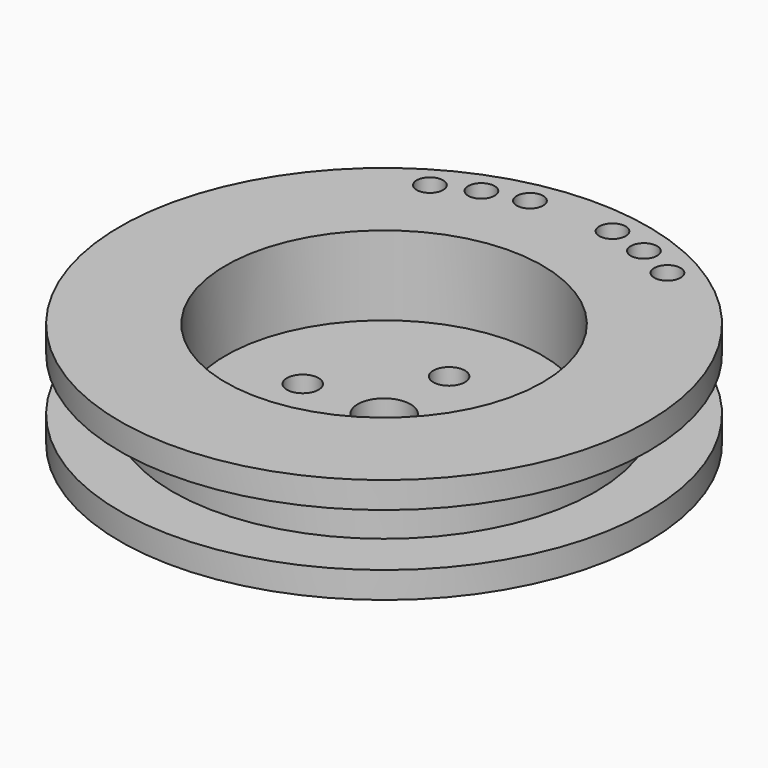
from build123d import *

# Parameters (mm, degrees)
F0_R     = 31.75
F0_R_2   = 25.4
F1_DEPTH = 3.175
F2_R     = 25.4
F3_DEPTH = 6.35
F4_R     = 31.75
F4_R_2   = 1.5875
F5_DEPTH = 3.175
F6_R     = 1.905
F6_R_2   = 3.175
F7_DEPTH = 12.7
F8_R     = 19.05
F9_DEPTH = 9.525


with BuildPart() as f1:
    # F0 (on Top) → F1 (new body)
    with BuildSketch(Plane.XY):
        Circle(F0_R)
        Circle(F0_R_2, mode=Mode.SUBTRACT)
        Circle(F0_R_2)
    extrude(amount=F1_DEPTH)

    # F2 (on face) → F3 (join)
    with BuildSketch(Plane.XY.offset(3.175)):
        Circle(F2_R)
    extrude(amount=F3_DEPTH)

    # F4 (on face) → F5 (join)
    with BuildSketch(Plane.XY.offset(9.525)):
        Circle(F4_R)
        with Locations((-14.2875, 24.746676)):
            Circle(F4_R_2, mode=Mode.SUBTRACT)
        with Locations((-9.773226, 26.851717)):
            Circle(F4_R_2, mode=Mode.SUBTRACT)
        with Locations((-4.961997, 28.140882)):
            Circle(F4_R_2, mode=Mode.SUBTRACT)
        with Locations((4.961997, 28.140882)):
            Circle(F4_R_2, mode=Mode.SUBTRACT)
        with Locations((9.773226, 26.851717)):
            Circle(F4_R_2, mode=Mode.SUBTRACT)
        with Locations((14.2875, 24.746676)):
            Circle(F4_R_2, mode=Mode.SUBTRACT)
    extrude(amount=F5_DEPTH)

    # F6 (on face) → F7 (cut, through all)
    with BuildSketch(Plane.XY.offset(12.7)):
        with Locations((0, 9.779)):
            Circle(F6_R)
        with Locations((0, -9.779)):
            Circle(F6_R)
        with Locations((-9.779, 0)):
            Circle(F6_R)
        with Locations((9.779, 0)):
            Circle(F6_R)
        Circle(F6_R_2)
    extrude(amount=-F7_DEPTH, mode=Mode.SUBTRACT)

    # F8 (on face) → F9 (cut)
    with BuildSketch(Plane.XY.offset(12.7)):
        Circle(F8_R)
    extrude(amount=-F9_DEPTH, mode=Mode.SUBTRACT)


solid = f1.part
